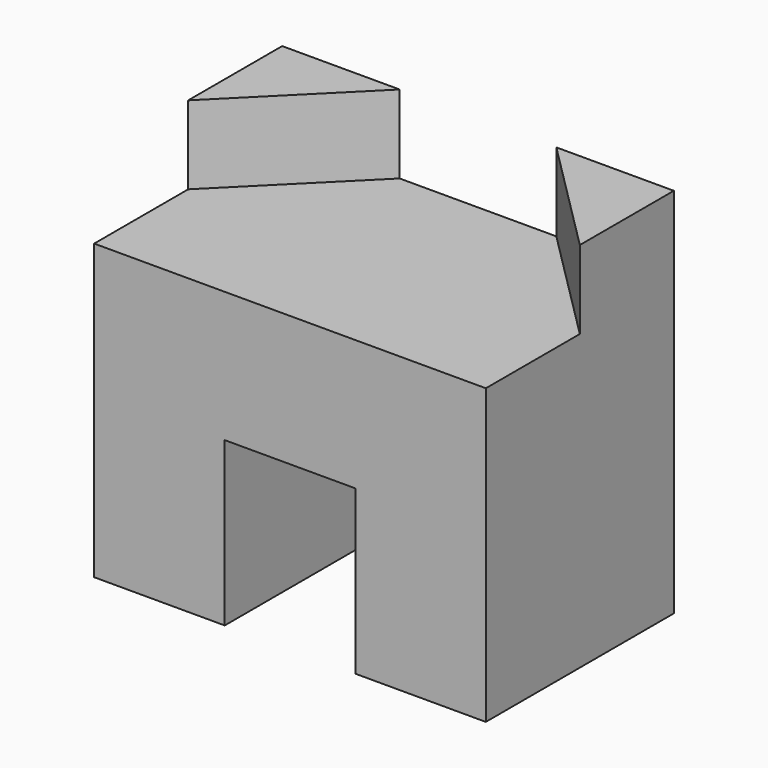
from build123d import *

# Parameters (mm, degrees)
F1_DEPTH = 36
F3_DEPTH = 12


with BuildPart() as f1:
    # F0 (on Front) → F1 (new body)
    with BuildSketch(Plane.XZ):
        Polygon((-30, 22.5), (-30, -22.5), (-10, -22.5), (-10, 2.5), (10, 2.5), (10, -22.5), (30, -22.5), (30, 22.5), (10, 22.5), (-10, 22.5), align=None)
    extrude(amount=F1_DEPTH)

    # F2 (on face) → F3 (join)
    with BuildSketch(Plane.XY.offset(22.5)):
        Polygon((-30, -18), (-12, 0), (-30, 0), align=None)
        Polygon((30, 0), (12, 0), (30, -18), align=None)
    extrude(amount=F3_DEPTH)


solid = f1.part
